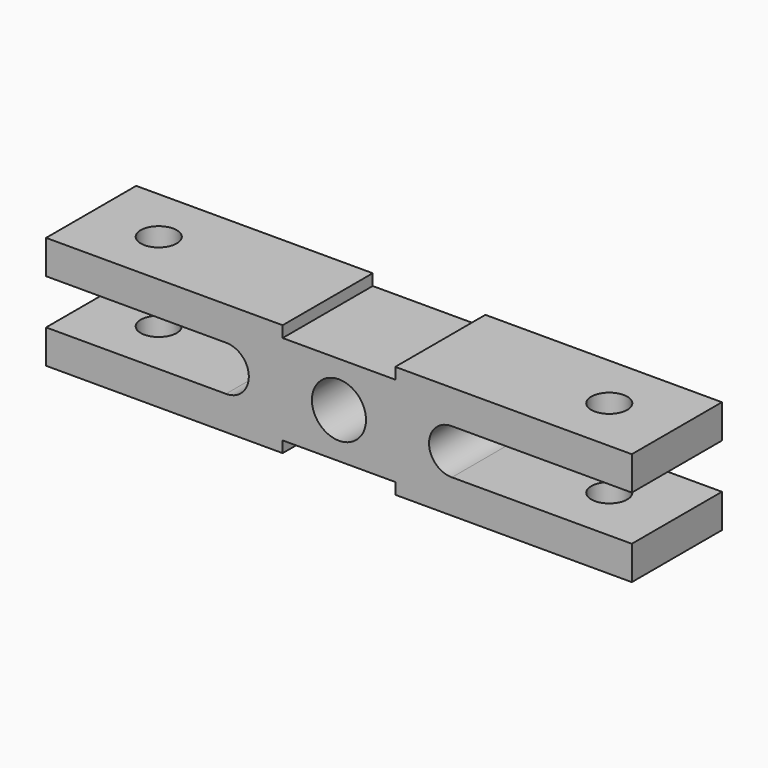
from build123d import *

# Parameters (mm, degrees)
F1_DEPTH = 25
F2_R     = 4
F3_DEPTH = 12.5


with BuildPart() as f1:
    # F0 (on Front) → F1 (new body)
    with BuildSketch(Plane.XZ):
        with BuildLine():
            Line((-12.5, 12.5), (-65, 12.5))
            Line((-65, 12.5), (-65, 4.999099))
            Line((-65, 4.999099), (-25.094896, 4.999099))
            ThreePointArc((-25.094896, 4.999099), (-20.000005, 0.006726), (-25.081447, -4.999337))
            Line((-25.081447, -4.999337), (-65, -4.999337))
            Line((-65, -4.999337), (-65, -12.5))
            Line((-65, -12.5), (-12.5, -12.5))
            Line((-12.5, -12.5), (-12.5, -10))
            Line((-12.5, -10), (12.5, -10))
            Line((12.5, -10), (12.5, -12.5))
            Line((12.5, -12.5), (65, -12.5))
            Line((65, -12.5), (65, -4.999337))
            Line((65, -4.999337), (25.081447, -4.999337))
            ThreePointArc((25.081447, -4.999337), (20.000005, 0.006726), (25.094896, 4.999099))
            Line((25.094896, 4.999099), (65, 4.999099))
            Line((65, 4.999099), (65, 12.5))
            Line((65, 12.5), (12.5, 12.5))
            Line((12.5, 12.5), (12.5, 10))
            Line((12.5, 10), (0, 10))
            Line((0, 10), (-12.5, 10))
            Line((-12.5, 10), (-12.5, 12.5))
        make_face()
        with BuildLine():
            ThreePointArc((6, 0), (-4.242641, -4.242641), (0, 6))
            ThreePointArc((0, 6), (4.242641, 4.242641), (6, 0))
        make_face(mode=Mode.SUBTRACT)
    extrude(amount=F1_DEPTH)

    # F2 (on Top) → F3 (cut, symmetric)
    with BuildSketch(Plane.XY):
        with Locations((-50, -12.5)):
            Circle(F2_R)
        with Locations((50, -12.5)):
            Circle(F2_R)
    extrude(amount=F3_DEPTH, both=True, mode=Mode.SUBTRACT)


solid = f1.part
